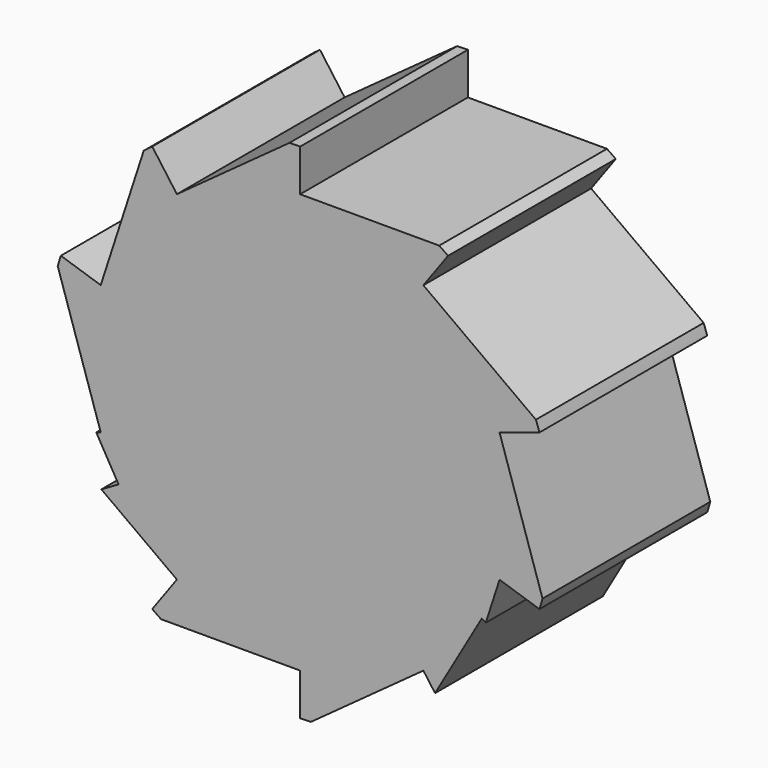
from build123d import *

# Parameters (mm, degrees)
F1_DEPTH = 25
F2_R     = 8.747273
F3_DEPTH = 25


with BuildPart() as f1:
    # F0 (on Front) → F1 (new body)
    with BuildSketch(Plane.XZ):
        with BuildLine():
            Line((23.776413, 7.725425), (28.531695, 9.27051))
            ThreePointArc((28.531695, 9.27051), (28.327614, 9.876553), (28.11066, 10.478109))
            Line((28.11066, 10.478109), (14.694631, 20.225425))
            Line((14.694631, 20.225425), (17.633558, 24.27051))
            ThreePointArc((17.633558, 24.27051), (17.112228, 24.640853), (16.583124, 25))
            Line((16.583124, 25), (0, 25))
            Line((0, 25), (0, 30))
            ThreePointArc((0, 30), (-0.639446, 29.993184), (-1.278602, 29.972741))
            Line((-1.278602, 29.972741), (-14.694631, 20.225425))
            Line((-14.694631, 20.225425), (-17.633558, 24.27051))
            ThreePointArc((-17.633558, 24.27051), (-18.146874, 23.889139), (-18.651946, 23.496913))
            Line((-18.651946, 23.496913), (-23.776413, 7.725425))
            Line((-23.776413, 7.725425), (-28.531695, 9.27051))
            ThreePointArc((-28.531695, 9.27051), (-28.722813, 8.660254), (-28.90088, 8.046063))
            Line((-28.90088, 8.046063), (-23.776413, -7.725425))
            Line((-23.776413, -7.725425), (-24.307592, -7.898015))
            Line((-24.307592, -7.898015), (-21.650635, -12.5))
            Line((-21.650635, -12.5), (-23.699571, -13.682953))
            Line((-23.699571, -13.682953), (-14.694631, -20.225425))
            Line((-14.694631, -20.225425), (-17.633558, -24.27051))
            ThreePointArc((-17.633558, -24.27051), (-17.112228, -24.640853), (-16.583124, -25))
            Line((-16.583124, -25), (0, -25))
            Line((0, -25), (0, -30))
            ThreePointArc((0, -30), (0.639446, -29.993184), (1.278602, -29.972741))
            Line((1.278602, -29.972741), (14.694631, -20.225425))
            Line((14.694631, -20.225425), (16.085277, -22.139484))
            Line((16.085277, -22.139484), (21.650635, -12.5))
            Line((21.650635, -12.5), (22.134323, -12.779257))
            Line((22.134323, -12.779257), (23.776413, -7.725425))
            Line((23.776413, -7.725425), (28.531695, -9.27051))
            ThreePointArc((28.531695, -9.27051), (28.722813, -8.660254), (28.90088, -8.046063))
            Line((28.90088, -8.046063), (23.776413, 7.725425))
        make_face()
    extrude(amount=F1_DEPTH)

    # F2 (on Front) → F3 (join)
    with BuildSketch(Plane.XZ):
        Circle(F2_R)
    extrude(amount=F3_DEPTH)


solid = f1.part
